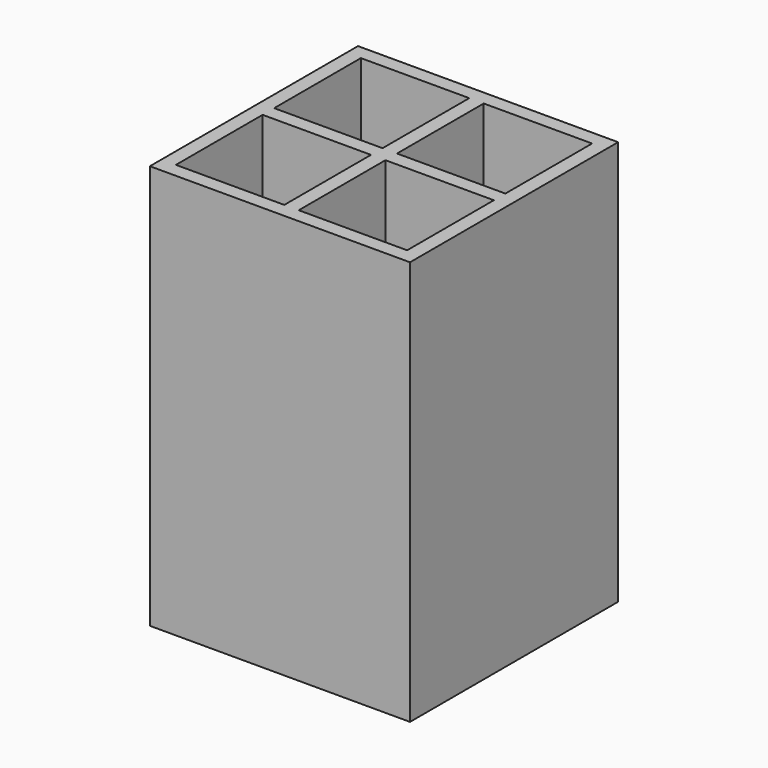
from build123d import *

# Parameters (mm, degrees)
F0_W      = 50.8
F0_H      = 50.8
F1_DEPTH  = 3.175
F2_W      = 50.8
F2_H      = 88.9
F3_DEPTH  = 3.175
F4_W      = 50.8
F4_H      = 88.9
F5_DEPTH  = 3.175
F6_W      = 57.15
F6_H      = 88.9
F7_DEPTH  = 3.175
F8_W      = 57.15
F8_H      = 88.9
F9_DEPTH  = 3.175
F10_W     = 50.8
F10_H     = 3.175
F11_DEPTH = 85.725
F12_W     = 3.175
F12_H     = 23.8125
F13_DEPTH = 85.725
F14_W     = 3.175
F14_H     = 23.8125
F15_DEPTH = 85.725


with BuildPart() as f1:
    # F0 (on Top) → F1 (new body)
    with BuildSketch(Plane.XY):
        Rectangle(F0_W, F0_H)
    extrude(amount=F1_DEPTH)

    # F2 (on face) → F3 (join)
    with BuildSketch(Plane(origin=(-25.4, 0, 0), x_dir=(0, -1, 0), z_dir=(-1, 0, 0))):
        with Locations((0, 44.45)):
            Rectangle(F2_W, F2_H)
    extrude(amount=F3_DEPTH)

    # F4 (on face) → F5 (join)
    with BuildSketch(Plane.YZ.offset(25.4)):
        with Locations((0, 44.45)):
            Rectangle(F4_W, F4_H)
    extrude(amount=F5_DEPTH)

    # F6 (on face) → F7 (join)
    with BuildSketch(Plane(origin=(0, 25.4, 0), x_dir=(-1, 0, 0), z_dir=(0, 1, 0))):
        with Locations((0, 44.45)):
            Rectangle(F6_W, F6_H)
    extrude(amount=F7_DEPTH)

    # F8 (on face) → F9 (join)
    with BuildSketch(Plane.XZ.offset(25.4)):
        with Locations((0, 44.45)):
            Rectangle(F8_W, F8_H)
    extrude(amount=F9_DEPTH)

    # F10 (on face) → F11 (join)
    with BuildSketch(Plane.XY.offset(3.175)):
        Rectangle(F10_W, F10_H)
    extrude(amount=F11_DEPTH)

    # F12 (on face) → F13 (join)
    with BuildSketch(Plane.XY.offset(3.175)):
        with Locations((0, 13.49375)):
            Rectangle(F12_W, F12_H)
    extrude(amount=F13_DEPTH)

    # F14 (on face) → F15 (join)
    with BuildSketch(Plane.XY.offset(3.175)):
        with Locations((0, -13.49375)):
            Rectangle(F14_W, F14_H)
    extrude(amount=F15_DEPTH)


solid = f1.part
